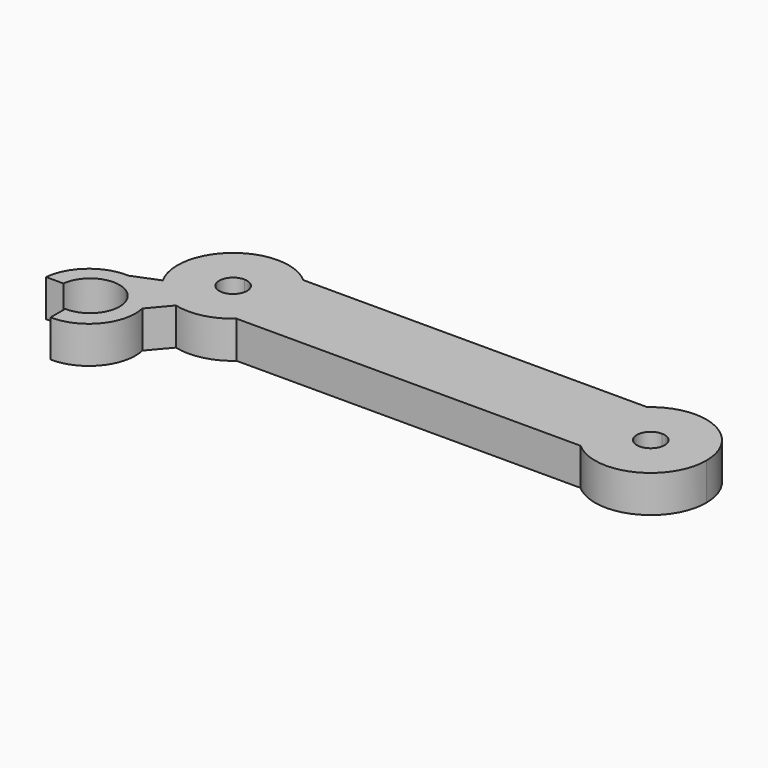
from build123d import *

# Parameters (mm, degrees)
F1_DEPTH = 10.16


with BuildPart() as f1:
    # F0 (on Top) → F1 (new body)
    with BuildSketch(Plane.XY):
        with BuildLine():
            Line((43.6365728808, 33.2415662706), (-50.5028021289, 33.2415662706))
            ThreePointArc((-50.5028021289, 33.2415662706), (-46.6928021289, 28.0818787657), (-45.343114624, 21.8115662706))
            ThreePointArc((-45.343114624, 21.8115662706), (-46.6928021289, 15.5412537754), (-50.5028021289, 10.3815662706))
            Line((-50.5028021289, 10.3815662706), (43.6365728808, 10.3815662706))
            ThreePointArc((43.6365728808, 10.3815662706), (38.476885376, 21.8115662706), (43.6365728808, 33.2415662706))
        make_face()
        with BuildLine():
            Line((-50.5028021289, 33.2415662706), (-60.583114624, 33.2415662706))
            Line((-60.583114624, 33.2415662706), (-60.583114624, 25.6215662706))
            ThreePointArc((-60.583114624, 25.6215662706), (-57.8890377877, 24.5056431069), (-56.773114624, 21.8115662706))
            ThreePointArc((-56.773114624, 21.8115662706), (-57.8890377877, 19.1174894343), (-60.583114624, 18.0015662706))
            Line((-60.583114624, 18.0015662706), (-60.583114624, 10.3815662706))
            Line((-60.583114624, 10.3815662706), (-50.5028021289, 10.3815662706))
            ThreePointArc((-50.5028021289, 10.3815662706), (-46.6928021289, 15.5412537754), (-45.343114624, 21.8115662706))
            ThreePointArc((-45.343114624, 21.8115662706), (-46.6928021289, 28.0818787657), (-50.5028021289, 33.2415662706))
        make_face()
        with BuildLine():
            Line((-60.583114624, 25.6215662706), (-60.583114624, 33.2415662706))
            Line((-60.583114624, 33.2415662706), (-50.5028021289, 33.2415662706))
            ThreePointArc((-50.5028021289, 33.2415662706), (-70.1616937801, 33.6651910896), (-73.874619414, 14.3554613613))
            ThreePointArc((-73.874619414, 14.3554613613), (-69.9024668607, 9.7530724223), (-64.4472925639, 7.0695945962))
            ThreePointArc((-64.4472925639, 7.0695945962), (-57.0614145665, 6.9840503389), (-50.5028021289, 10.3815662706))
            Line((-50.5028021289, 10.3815662706), (-60.583114624, 10.3815662706))
            Line((-60.583114624, 10.3815662706), (-60.583114624, 18.0015662706))
            ThreePointArc((-60.583114624, 18.0015662706), (-64.393114624, 21.8115662706), (-60.583114624, 25.6215662706))
        make_face()
        with BuildLine():
            Line((53.716885376, 33.2415662706), (43.6365728808, 33.2415662706))
            ThreePointArc((43.6365728808, 33.2415662706), (38.476885376, 21.8115662706), (43.6365728808, 10.3815662706))
            Line((43.6365728808, 10.3815662706), (53.716885376, 10.3815662706))
            Line((53.716885376, 10.3815662706), (53.716885376, 18.0015662706))
            ThreePointArc((53.716885376, 18.0015662706), (49.906885376, 21.8115662706), (53.716885376, 25.6215662706))
            Line((53.716885376, 25.6215662706), (53.716885376, 33.2415662706))
        make_face()
        with BuildLine():
            ThreePointArc((68.956885376, 21.8115662706), (59.9871978711, 35.7018787657), (43.6365728808, 33.2415662706))
            Line((43.6365728808, 33.2415662706), (53.716885376, 33.2415662706))
            Line((53.716885376, 33.2415662706), (53.716885376, 25.6215662706))
            ThreePointArc((53.716885376, 25.6215662706), (56.4109622123, 24.5056431069), (57.526885376, 21.8115662706))
            ThreePointArc((57.526885376, 21.8115662706), (56.4109622123, 19.1174894343), (53.716885376, 18.0015662706))
            Line((53.716885376, 18.0015662706), (53.716885376, 10.3815662706))
            Line((53.716885376, 10.3815662706), (43.6365728808, 10.3815662706))
            ThreePointArc((43.6365728808, 10.3815662706), (59.9871978711, 7.9212537754), (68.956885376, 21.8115662706))
        make_face()
        with BuildLine():
            ThreePointArc((-64.4472925639, 7.0695945962), (-69.9024668607, 9.7530724223), (-73.874619414, 14.3554613613))
            Line((-73.874619414, 14.3554613613), (-80.9822455049, 11.5053309128))
            Line((-80.9822455049, 11.5053309128), (-69.1742524505, 1.4942061389))
            Line((-69.1742524505, 1.4942061389), (-64.4472925639, 7.0695945962))
        make_face()
        with BuildLine():
            Line((-69.1742524505, 1.4942061389), (-80.9822455049, 11.5053309128))
            ThreePointArc((-80.9822455049, 11.5053309128), (-89.9673198339, 8.4301361201), (-94.340097979, 0))
            Line((-94.340097979, 0), (-89.5845357907, 0))
            ThreePointArc((-89.5845357907, 0), (-81.1274192403, 7.1434810903), (-73.5217529639, -0.9005218265))
            ThreePointArc((-73.5217529639, -0.9005218265), (-76.0065115637, -6.7197620731), (-81.9281311378, -8.9495611595))
            Line((-81.9281311378, -8.9495611595), (-81.9281311378, -13.9967047853))
            ThreePointArc((-81.9281311378, -13.9967047853), (-71.7875263831, -9.3499264964), (-69.1742524505, 1.4942061389))
        make_face()
    extrude(amount=F1_DEPTH)


solid = f1.part
